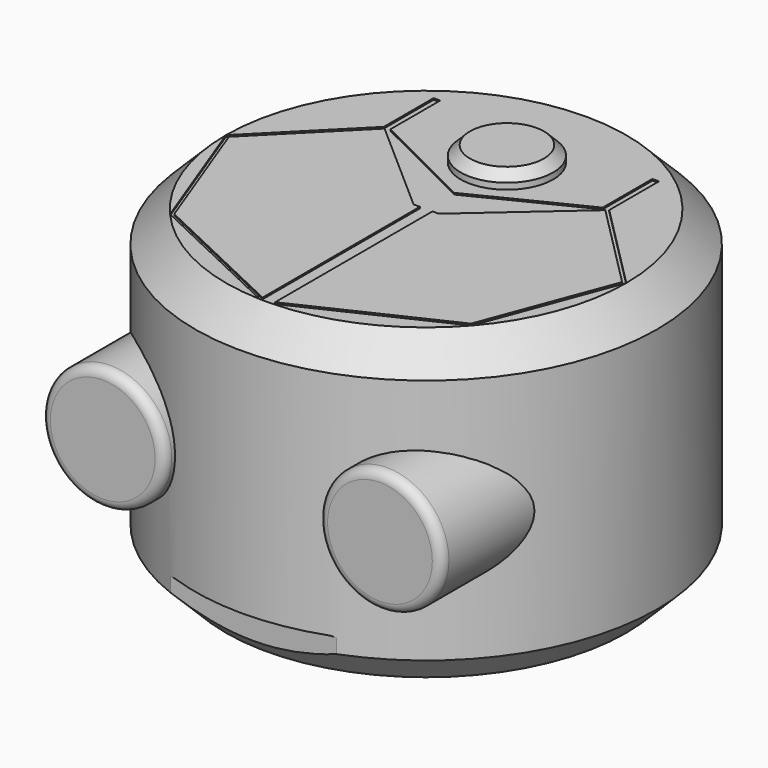
from build123d import *

# Parameters (mm, degrees)
F0_R      = 75
F1_DEPTH  = 50
F2_SIZE   = 10
F4_R      = 20
F5_DEPTH  = 40
F6_R      = 3
F6_2_R    = 3
F4_W      = 60
F4_H      = 5
F7_DEPTH  = 5
F8_R      = 15
F9_DEPTH  = 5
F10_DEPTH = 0.5
F11_SIZE  = 3


with BuildPart() as f1:
    # F0 (on Top) → F1 (new body, symmetric)
    with BuildSketch(Plane.XY):
        Circle(F0_R)
    extrude(amount=F1_DEPTH, both=True)

    # F2
    f2_edges = [f1.edges().sort_by_distance(p)[0] for p in [
        (-75, 0, 50),
        (-75, 0, -50),
    ]]
    chamfer(f2_edges, length=F2_SIZE)

    # F4 (on offset) → F7 (cut)
    with BuildSketch(Plane.XZ.offset(75)):
        with BuildLine():
            ThreePointArc((-25, -35), (-28.5355339059, -36.4644660941), (-30, -40))
            Line((-30, -40), (30, -40))
            ThreePointArc((30, -40), (28.5355339059, -36.4644660941), (25, -35))
            Line((25, -35), (-25, -35))
        make_face()
        with Locations((0, -42.5)):
            Rectangle(F4_W, F4_H)
    extrude(amount=-F7_DEPTH, mode=Mode.SUBTRACT)

    # F8 (on face) → F9 (join)
    with BuildSketch(Plane.XY.offset(50)):
        with Locations((0, 32.7919243128)):
            Circle(F8_R)
    extrude(amount=F9_DEPTH)

    # F8 (on face) → F10 (cut)
    with BuildSketch(Plane.XY.offset(50)):
        Polygon((0, 11.4285722375), (0, 0), (2.0438705105, 0), (4.0877410211, 0), (35.8352803363, 27.9099264723), (36.587741226, 28.5714305937), (36.587741226, 48.7500019372), (34.4448834658, 48.7500019372), (34.4448834658, 28.5714305937), align=None)
        Polygon((-2.0438705105, 0), (0, 0), (0, 11.4285722375), (-34.4448834658, 28.5714305937), (-34.4448834658, 48.7500019372), (-36.587741226, 48.7500019372), (-36.587741226, 28.5714305937), (-35.8352803363, 27.9099264723), (-4.0877410211, 0), align=None)
        Polygon((-2.0438705105, -64.9678581557), (-2.0438705105, -63.861385349), (-48.1734415915, -42.015145565), (-63.8382412242, -0.2499132572), (-35.8352803363, 27.9099264723), (-36.587741226, 28.5714305937), (-65, 0), (-48.9675110444, -42.7455595602), align=None)
        Polygon((48.1734415915, -42.015145565), (2.0438705105, -63.861385349), (2.0438705105, -64.9678581557), (48.9675110444, -42.7455595602), (65, 0), (36.587741226, 28.5714305937), (35.8352803363, 27.9099264723), (63.8382412242, -0.2499132572), align=None)
        with BuildLine():
            Line((2.0438705105, 0), (0, 0))
            Line((0, 0), (-2.0438705105, 0))
            Line((-2.0438705105, 0), (-2.0438705105, -63.861385349))
            Line((-2.0438705105, -63.861385349), (-2.0438705105, -64.9678581557))
            ThreePointArc((-2.0438705105, -64.9678581557), (0, -65), (2.0438705105, -64.9678581557))
            Line((2.0438705105, -64.9678581557), (2.0438705105, -63.861385349))
            Line((2.0438705105, -63.861385349), (2.0438705105, 0))
        make_face()
    extrude(amount=-F10_DEPTH, mode=Mode.SUBTRACT)

    # F11
    f11_edges = [f1.edges().sort_by_distance(p)[0] for p in [
        (-15, 32.791924, 55),
    ]]
    chamfer(f11_edges, length=F11_SIZE)


with BuildPart() as f5:
    # F4 (on offset) → F5 (new body)
    with BuildSketch(Plane.XZ.offset(75)):
        with Locations((-45, 0)):
            Circle(F4_R)
    extrude(amount=-F5_DEPTH)

    # F6
    f6_edges = [f5.edges().sort_by_distance(p)[0] for p in [
        (-65, -75, 0),
    ]]
    fillet(f6_edges, radius=F6_R)


with BuildPart() as f5b:
    # F4 (on offset) → F5, piece 2 (new body)
    with BuildSketch(Plane.XZ.offset(75)):
        with Locations((45, 0)):
            Circle(F4_R)
    extrude(amount=-F5_DEPTH)

    # F6#2
    f6_2_edges = [f5b.edges().sort_by_distance(p)[0] for p in [
        (25, -75, 0),
    ]]
    fillet(f6_2_edges, radius=F6_2_R)


solid = Compound([f1.part, f5.part, f5b.part])
